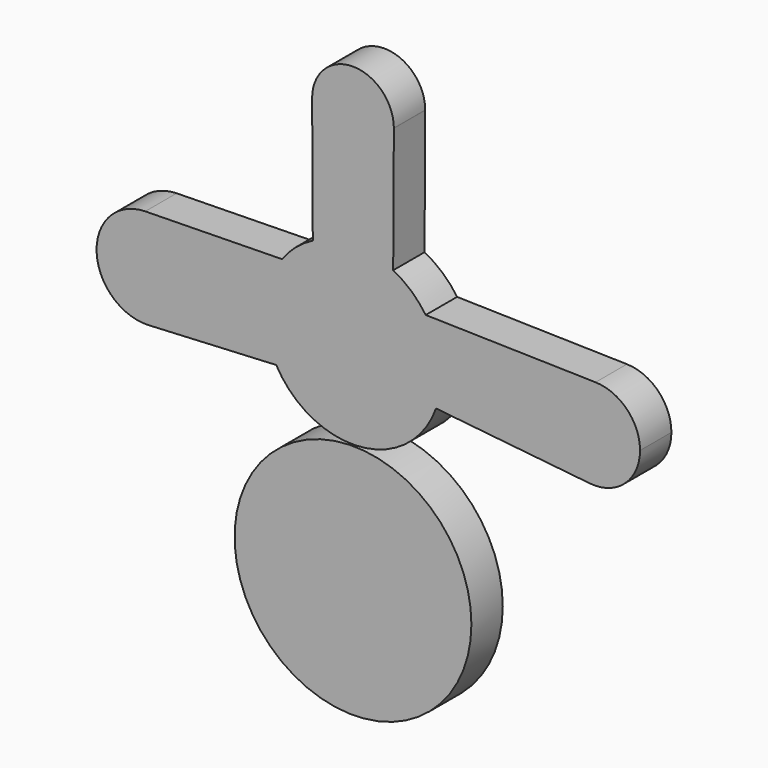
from build123d import *

# Parameters (mm, degrees)
F0_R     = 23.014957
F1_DEPTH = 7.62


with BuildPart() as f1:
    # F0 (on Front) → F1 (new body)
    with BuildSketch(Plane.XZ):
        with BuildLine():
            ThreePointArc((16.134025, -5.69942), (16.865072, -2.891284), (17.111112, 0))
            ThreePointArc((17.111112, 0), (16.351496, 5.041699), (14.140092, 9.635764))
            ThreePointArc((14.140092, 9.635764), (11.326531, 12.82575), (7.813079, 15.223205))
            ThreePointArc((7.813079, 15.223205), (0, 17.111112), (-7.813079, 15.223205))
            ThreePointArc((-7.813079, 15.223205), (-11.109863, 13.013881), (-13.809021, 10.10451))
            ThreePointArc((-13.809021, 10.10451), (-17.08011, 1.029568), (-14.922797, -8.372592))
            ThreePointArc((-14.922797, -8.372592), (1.467389, -17.048077), (16.134025, -5.69942))
        make_face()
        with BuildLine():
            ThreePointArc((14.140092, 9.635764), (16.351496, 5.041699), (17.111112, 0))
            ThreePointArc((17.111112, 0), (16.865072, -2.891284), (16.134025, -5.69942))
            Line((16.134025, -5.69942), (46.019901, -8.80925))
            ThreePointArc((46.019901, -8.80925), (38.0977, 0.563597), (47.146194, 8.854333))
            Line((47.146194, 8.854333), (14.140092, 9.635764))
        make_face()
        with BuildLine():
            ThreePointArc((-7.813079, 15.223205), (0, 17.111112), (7.813079, 15.223205))
            Line((7.813079, 15.223205), (7.943915, 39.566215))
            ThreePointArc((7.943915, 39.566215), (0, 31.664881), (-7.943915, 39.566215))
            Line((-7.943915, 39.566215), (-7.813079, 15.223205))
        make_face()
        with BuildLine():
            ThreePointArc((55.793379, 0), (53.272959, 6.188155), (47.146194, 8.854333))
            ThreePointArc((47.146194, 8.854333), (38.0977, 0.563597), (46.019901, -8.80925))
            ThreePointArc((46.019901, -8.80925), (52.866339, -6.578825), (55.793379, 0))
        make_face()
        with BuildLine():
            Line((-39.716863, -9.624993), (-14.922797, -8.372592))
            ThreePointArc((-14.922797, -8.372592), (-17.08011, 1.029568), (-13.809021, 10.10451))
            Line((-13.809021, 10.10451), (-40.373074, 9.635764))
            ThreePointArc((-40.373074, 9.635764), (-33.44885, 6.874427), (-30.565778, 0))
            ThreePointArc((-30.565778, 0), (-33.218692, -6.64046), (-39.716863, -9.624993))
        make_face()
        with BuildLine():
            ThreePointArc((-7.943915, 39.566215), (0, 31.664881), (7.943915, 39.566215))
            ThreePointArc((7.943915, 39.566215), (7.944001, 39.587563), (7.94403, 39.608911))
            ThreePointArc((7.94403, 39.608911), (-0.021348, 47.552912), (-7.943915, 39.566215))
        make_face()
        with BuildLine():
            ThreePointArc((-40.373074, 9.635764), (-49.834718, -0.328149), (-39.716863, -9.624993))
            ThreePointArc((-39.716863, -9.624993), (-33.218692, -6.64046), (-30.565778, 0))
            ThreePointArc((-30.565778, 0), (-33.44885, 6.874427), (-40.373074, 9.635764))
        make_face()
        with Locations((0, -40.401094)):
            Circle(F0_R)
    extrude(amount=F1_DEPTH)


solid = f1.part
